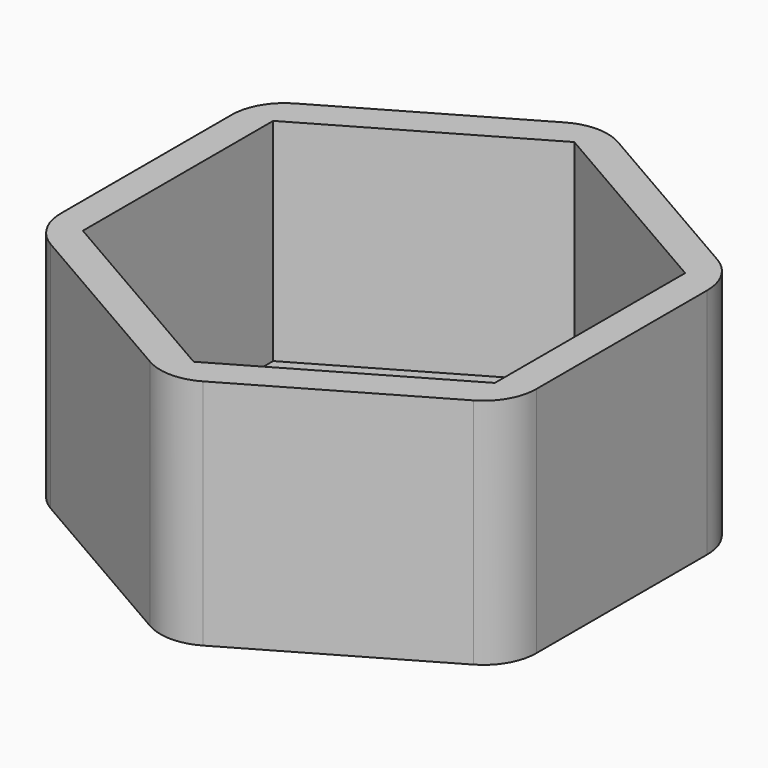
from build123d import *

# Parameters (mm, degrees)
F1_DEPTH = 8
F2_DEPTH = 0.8
F3_R     = 2


with BuildPart() as f1:
    # F0 (on Top) → F1 (new body)
    with BuildSketch(Plane.XY):
        Polygon((-8.9942286341, 5.192820323), (-8.9942286341, -5.192820323), (0, -10.3856406461), (8.9942286341, -5.192820323), (8.9942286341, 5.192820323), (0, 10.3856406461), align=None)
        Polygon((0, -9), (-7.7942286341, -4.5), (-7.7942286341, 4.5), (0, 9), (7.7942286341, 4.5), (7.7942286341, -4.5), align=None, mode=Mode.SUBTRACT)
    extrude(amount=F1_DEPTH)

    # F0 (on Top) → F2 (join)
    with BuildSketch(Plane.XY):
        Polygon((-8.9942286341, 5.192820323), (-8.9942286341, -5.192820323), (0, -10.3856406461), (8.9942286341, -5.192820323), (8.9942286341, 5.192820323), (0, 10.3856406461), align=None)
        Polygon((0, -9), (-7.7942286341, -4.5), (-7.7942286341, 4.5), (0, 9), (7.7942286341, 4.5), (7.7942286341, -4.5), align=None, mode=Mode.SUBTRACT)
        Polygon((-7.7942286341, 4.5), (-7.7942286341, -4.5), (0, -9), (7.7942286341, -4.5), (7.7942286341, 4.5), (0, 9), align=None)
    extrude(amount=-F2_DEPTH)

    # F3
    f3_edges = [f1.edges().sort_by_distance(p)[0] for p in [
        (-8.994229, -5.19282, 3.6),
        (-8.994229, 5.19282, 3.6),
        (0, -10.385641, 3.6),
        (8.994229, -5.19282, 3.6),
        (8.994229, 5.19282, 3.6),
        (0, 10.385641, 3.6),
    ]]
    fillet(f3_edges, radius=F3_R)


solid = f1.part
